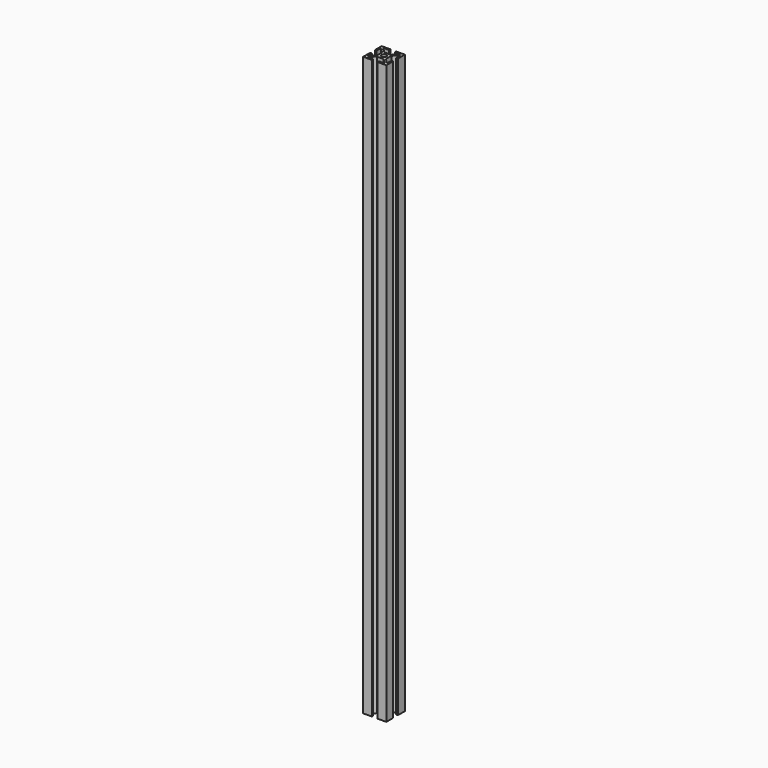
from build123d import *

# Parameters (mm, degrees)
SKETCH_R  = 2.15
PAD_DEPTH = 500


with BuildPart() as part:
    # Sketch → Pad (new body)
    with BuildSketch(Plane.XY):
        Polygon((-4, 2.93934), (-4, -2.93934), (-8.5, -7.439339), (-8.5, -2.5), (-10, -2.5), (-10, -10), (-2.5, -10), (-2.5, -8.5), (-7.439341, -8.5), (-2.93934, -4), (2.93934, -4), (7.439332, -8.5), (2.5, -8.5), (2.5, -10), (10, -10), (10, -2.5), (8.5, -2.5), (8.5, -7.439348), (4, -2.93934), (4, 2.93934), (8.5, 7.439332), (8.5, 2.5), (10, 2.5), (10, 10), (2.5, 10), (2.5, 8.5), (7.439347, 8.5), (2.93934, 4), (-2.93934, 4), (-7.439345, 8.5), (-2.5, 8.5), (-2.5, 10), (-10, 10), (-10, 2.5), (-8.5, 2.5), (-8.5, 7.439334), align=None)
        Circle(SKETCH_R, mode=Mode.SUBTRACT)
    extrude(amount=PAD_DEPTH)


solid = part.part
